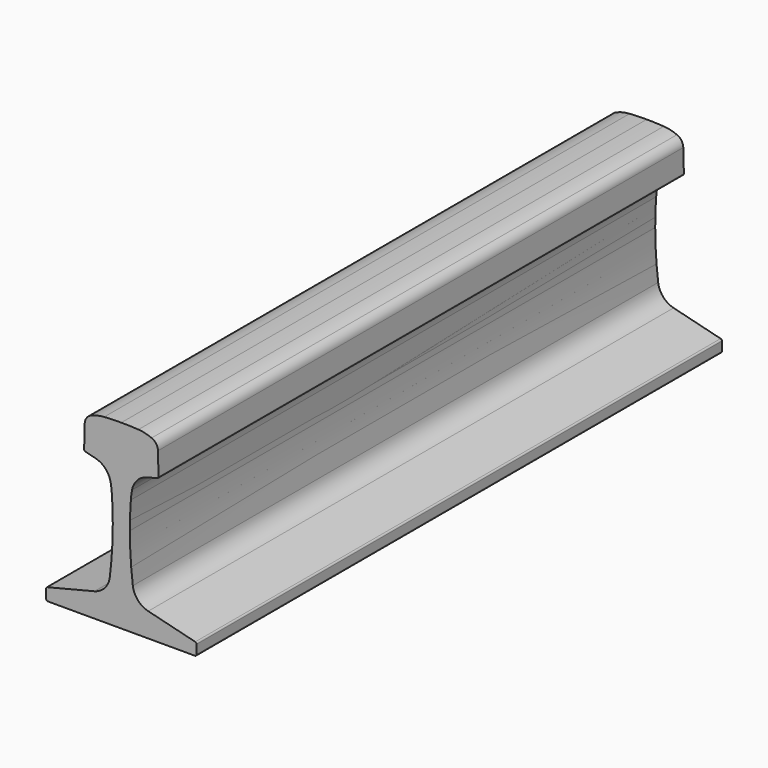
from build123d import *

# Parameters (mm, degrees)
F1_DEPTH = 609.6
F4_DEPTH = 609.6
F5_D     = 26.9875
F6_DEPTH = 609.6
F7_D     = 26.9875


with BuildPart() as f1:
    # F0 (on Front) → F1 (new body)
    with BuildSketch(Plane.XZ):
        with BuildLine():
            Line((-68.2625, 0), (0, 0))
            Line((0, 0), (68.2625, 0))
            ThreePointArc((68.2625, 0), (69.3850320151, 0.4649679849), (69.85, 1.5875))
            Line((69.85, 1.5875), (69.85, 9.9184410742))
            ThreePointArc((69.85, 9.9184410742), (69.5134718097, 10.8957976014), (68.6465659448, 11.4587818157))
            Line((68.6465659448, 11.4587818157), (24.9743506964, 22.3479378062))
            ThreePointArc((24.9743506964, 22.3479378062), (15.3287636354, 28.1941789267), (10.6800651686, 38.4706319897))
            ThreePointArc((10.6800651686, 38.4706319897), (8.6238035708, 60.4676974259), (7.9375, 82.55))
            ThreePointArc((7.9375, 82.55), (8.1646482703, 95.2581176236), (8.8458028883, 107.95))
            ThreePointArc((8.8458028883, 107.95), (9.268740761, 112.1889252902), (9.9279028601, 116.3975912769))
            ThreePointArc((9.9279028601, 116.3975912769), (14.783545788, 125.978027641), (24.0499274457, 131.4090680703))
            Line((24.0499274457, 131.4090680703), (33.3246909448, 133.7216218517))
            ThreePointArc((33.3246909448, 133.7216218517), (34.2037235959, 134.3003295099), (34.5276282816, 135.3016719638))
            Line((34.5276282816, 135.3016719638), (34.0004533296, 156.3704616935))
            ThreePointArc((34.0004533296, 156.3704616935), (32.3364255064, 161.5152890498), (28.1399948532, 164.9253047235))
            ThreePointArc((28.1399948532, 164.9253047235), (22.1261866855, 166.8620849691), (15.875, 167.7784208349))
            ThreePointArc((15.875, 167.7784208349), (7.9413823713, 168.1508248554), (0, 168.275))
            ThreePointArc((0, 168.275), (-7.9413823713, 168.1508248554), (-15.875, 167.7784208349))
            ThreePointArc((-15.875, 167.7784208349), (-22.1261866855, 166.8620849691), (-28.1399948532, 164.9253047235))
            ThreePointArc((-28.1399948532, 164.9253047235), (-32.3364255064, 161.5152890498), (-34.0004533296, 156.3704616935))
            Line((-34.0004533296, 156.3704616935), (-34.5276282816, 135.3016719638))
            ThreePointArc((-34.5276282816, 135.3016719638), (-34.2037235959, 134.3003295099), (-33.3246909448, 133.7216218517))
            Line((-33.3246909448, 133.7216218517), (-24.0499274457, 131.4090680703))
            ThreePointArc((-24.0499274457, 131.4090680703), (-14.783545788, 125.978027641), (-9.9279028601, 116.3975912769))
            ThreePointArc((-9.9279028601, 116.3975912769), (-9.268740761, 112.1889252902), (-8.8458028883, 107.95))
            ThreePointArc((-8.8458028883, 107.95), (-8.1646482703, 95.2581176236), (-7.9375, 82.55))
            ThreePointArc((-7.9375, 82.55), (-8.6238035708, 60.4676974259), (-10.6800651686, 38.4706319897))
            ThreePointArc((-10.6800651686, 38.4706319897), (-15.3287636354, 28.1941789267), (-24.9743506964, 22.3479378062))
            Line((-24.9743506964, 22.3479378062), (-68.6465659448, 11.4587818157))
            ThreePointArc((-68.6465659448, 11.4587818157), (-69.5134718097, 10.8957976014), (-69.85, 9.9184410742))
            Line((-69.85, 9.9184410742), (-69.85, 1.5875))
            ThreePointArc((-69.85, 1.5875), (-69.3850320151, 0.4649679849), (-68.2625, 0))
        make_face()
    extrude(amount=-F1_DEPTH)


with BuildPart() as f4:
    # F0 (on Front) → F4 (new body)
    with BuildSketch(Plane.XZ):
        with BuildLine():
            Line((-68.2625, 0), (0, 0))
            Line((0, 0), (68.2625, 0))
            ThreePointArc((68.2625, 0), (69.3850320151, 0.4649679849), (69.85, 1.5875))
            Line((69.85, 1.5875), (69.85, 9.9184410742))
            ThreePointArc((69.85, 9.9184410742), (69.5134718097, 10.8957976014), (68.6465659448, 11.4587818157))
            Line((68.6465659448, 11.4587818157), (24.9743506964, 22.3479378062))
            ThreePointArc((24.9743506964, 22.3479378062), (15.3287636354, 28.1941789267), (10.6800651686, 38.4706319897))
            ThreePointArc((10.6800651686, 38.4706319897), (8.6238035708, 60.4676974259), (7.9375, 82.55))
            ThreePointArc((7.9375, 82.55), (8.1646482703, 95.2581176236), (8.8458028883, 107.95))
            ThreePointArc((8.8458028883, 107.95), (9.268740761, 112.1889252902), (9.9279028601, 116.3975912769))
            ThreePointArc((9.9279028601, 116.3975912769), (14.783545788, 125.978027641), (24.0499274457, 131.4090680703))
            Line((24.0499274457, 131.4090680703), (33.3246909448, 133.7216218517))
            ThreePointArc((33.3246909448, 133.7216218517), (34.2037235959, 134.3003295099), (34.5276282816, 135.3016719638))
            Line((34.5276282816, 135.3016719638), (34.0004533296, 156.3704616935))
            ThreePointArc((34.0004533296, 156.3704616935), (32.3364255064, 161.5152890498), (28.1399948532, 164.9253047235))
            ThreePointArc((28.1399948532, 164.9253047235), (22.1261866855, 166.8620849691), (15.875, 167.7784208349))
            ThreePointArc((15.875, 167.7784208349), (7.9413823713, 168.1508248554), (0, 168.275))
            ThreePointArc((0, 168.275), (-7.9413823713, 168.1508248554), (-15.875, 167.7784208349))
            ThreePointArc((-15.875, 167.7784208349), (-22.1261866855, 166.8620849691), (-28.1399948532, 164.9253047235))
            ThreePointArc((-28.1399948532, 164.9253047235), (-32.3364255064, 161.5152890498), (-34.0004533296, 156.3704616935))
            Line((-34.0004533296, 156.3704616935), (-34.5276282816, 135.3016719638))
            ThreePointArc((-34.5276282816, 135.3016719638), (-34.2037235959, 134.3003295099), (-33.3246909448, 133.7216218517))
            Line((-33.3246909448, 133.7216218517), (-24.0499274457, 131.4090680703))
            ThreePointArc((-24.0499274457, 131.4090680703), (-14.783545788, 125.978027641), (-9.9279028601, 116.3975912769))
            ThreePointArc((-9.9279028601, 116.3975912769), (-9.268740761, 112.1889252902), (-8.8458028883, 107.95))
            ThreePointArc((-8.8458028883, 107.95), (-8.1646482703, 95.2581176236), (-7.9375, 82.55))
            ThreePointArc((-7.9375, 82.55), (-8.6238035708, 60.4676974259), (-10.6800651686, 38.4706319897))
            ThreePointArc((-10.6800651686, 38.4706319897), (-15.3287636354, 28.1941789267), (-24.9743506964, 22.3479378062))
            Line((-24.9743506964, 22.3479378062), (-68.6465659448, 11.4587818157))
            ThreePointArc((-68.6465659448, 11.4587818157), (-69.5134718097, 10.8957976014), (-69.85, 9.9184410742))
            Line((-69.85, 9.9184410742), (-69.85, 1.5875))
            ThreePointArc((-69.85, 1.5875), (-69.3850320151, 0.4649679849), (-68.2625, 0))
        make_face()
    extrude(amount=-F4_DEPTH)

    # F5 (through all)
    with Locations(Plane.YZ.offset(76.2)):
        with Locations((88.9, 73.025), (241.3, 73.025)):
            Hole(F5_D / 2)


with BuildPart() as f6:
    # F0 (on Front) → F6 (new body)
    with BuildSketch(Plane.XZ):
        with BuildLine():
            Line((-68.2625, 0), (0, 0))
            Line((0, 0), (68.2625, 0))
            ThreePointArc((68.2625, 0), (69.3850320151, 0.4649679849), (69.85, 1.5875))
            Line((69.85, 1.5875), (69.85, 9.9184410742))
            ThreePointArc((69.85, 9.9184410742), (69.5134718097, 10.8957976014), (68.6465659448, 11.4587818157))
            Line((68.6465659448, 11.4587818157), (24.9743506964, 22.3479378062))
            ThreePointArc((24.9743506964, 22.3479378062), (15.3287636354, 28.1941789267), (10.6800651686, 38.4706319897))
            ThreePointArc((10.6800651686, 38.4706319897), (8.6238035708, 60.4676974259), (7.9375, 82.55))
            ThreePointArc((7.9375, 82.55), (8.1646482703, 95.2581176236), (8.8458028883, 107.95))
            ThreePointArc((8.8458028883, 107.95), (9.268740761, 112.1889252902), (9.9279028601, 116.3975912769))
            ThreePointArc((9.9279028601, 116.3975912769), (14.783545788, 125.978027641), (24.0499274457, 131.4090680703))
            Line((24.0499274457, 131.4090680703), (33.3246909448, 133.7216218517))
            ThreePointArc((33.3246909448, 133.7216218517), (34.2037235959, 134.3003295099), (34.5276282816, 135.3016719638))
            Line((34.5276282816, 135.3016719638), (34.0004533296, 156.3704616935))
            ThreePointArc((34.0004533296, 156.3704616935), (32.3364255064, 161.5152890498), (28.1399948532, 164.9253047235))
            ThreePointArc((28.1399948532, 164.9253047235), (22.1261866855, 166.8620849691), (15.875, 167.7784208349))
            ThreePointArc((15.875, 167.7784208349), (7.9413823713, 168.1508248554), (0, 168.275))
            ThreePointArc((0, 168.275), (-7.9413823713, 168.1508248554), (-15.875, 167.7784208349))
            ThreePointArc((-15.875, 167.7784208349), (-22.1261866855, 166.8620849691), (-28.1399948532, 164.9253047235))
            ThreePointArc((-28.1399948532, 164.9253047235), (-32.3364255064, 161.5152890498), (-34.0004533296, 156.3704616935))
            Line((-34.0004533296, 156.3704616935), (-34.5276282816, 135.3016719638))
            ThreePointArc((-34.5276282816, 135.3016719638), (-34.2037235959, 134.3003295099), (-33.3246909448, 133.7216218517))
            Line((-33.3246909448, 133.7216218517), (-24.0499274457, 131.4090680703))
            ThreePointArc((-24.0499274457, 131.4090680703), (-14.783545788, 125.978027641), (-9.9279028601, 116.3975912769))
            ThreePointArc((-9.9279028601, 116.3975912769), (-9.268740761, 112.1889252902), (-8.8458028883, 107.95))
            ThreePointArc((-8.8458028883, 107.95), (-8.1646482703, 95.2581176236), (-7.9375, 82.55))
            ThreePointArc((-7.9375, 82.55), (-8.6238035708, 60.4676974259), (-10.6800651686, 38.4706319897))
            ThreePointArc((-10.6800651686, 38.4706319897), (-15.3287636354, 28.1941789267), (-24.9743506964, 22.3479378062))
            Line((-24.9743506964, 22.3479378062), (-68.6465659448, 11.4587818157))
            ThreePointArc((-68.6465659448, 11.4587818157), (-69.5134718097, 10.8957976014), (-69.85, 9.9184410742))
            Line((-69.85, 9.9184410742), (-69.85, 1.5875))
            ThreePointArc((-69.85, 1.5875), (-69.3850320151, 0.4649679849), (-68.2625, 0))
        make_face()
    extrude(amount=-F6_DEPTH)

    # F7 (through all)
    with Locations(Plane.YZ.offset(76.2)):
        with Locations((88.9, 73.025), (241.3, 73.025), (393.7, 73.025)):
            Hole(F7_D / 2)


solid = Compound([f1.part, f4.part, f6.part])
